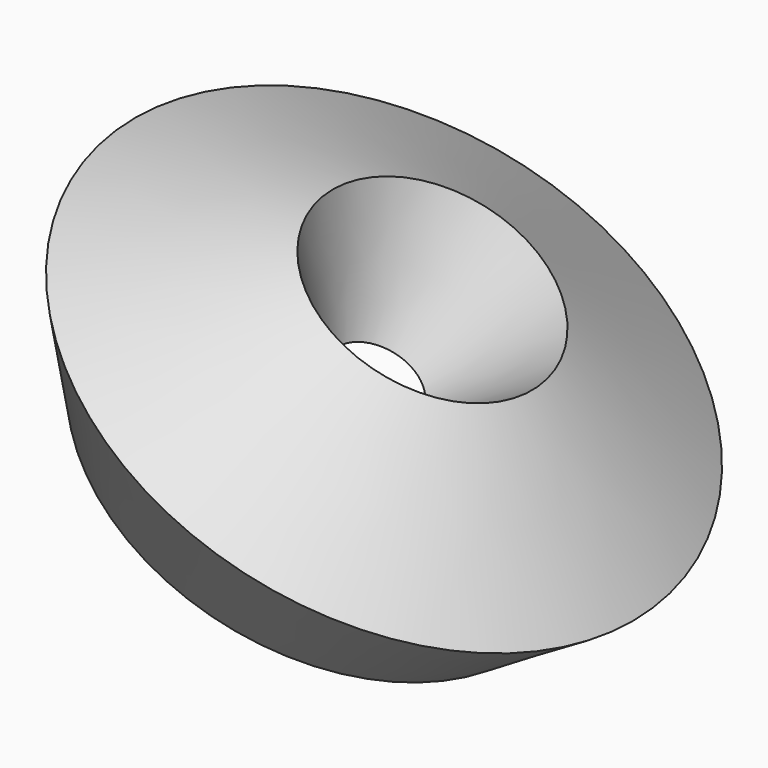
from build123d import *


with BuildPart() as f2:
    # F1 (on face) → F2 (revolve)
    with BuildSketch(Plane.XZ):
        Polygon((83.644018, -70.096038), (77.753596, 101.315305), (-169.644222, 99.548168), (-169.644222, -70.096038), align=None)
    revolve(axis=Axis((153.705228, 0, -54.691583), (0.491604, 0, 0.870819)))


solid = f2.part
